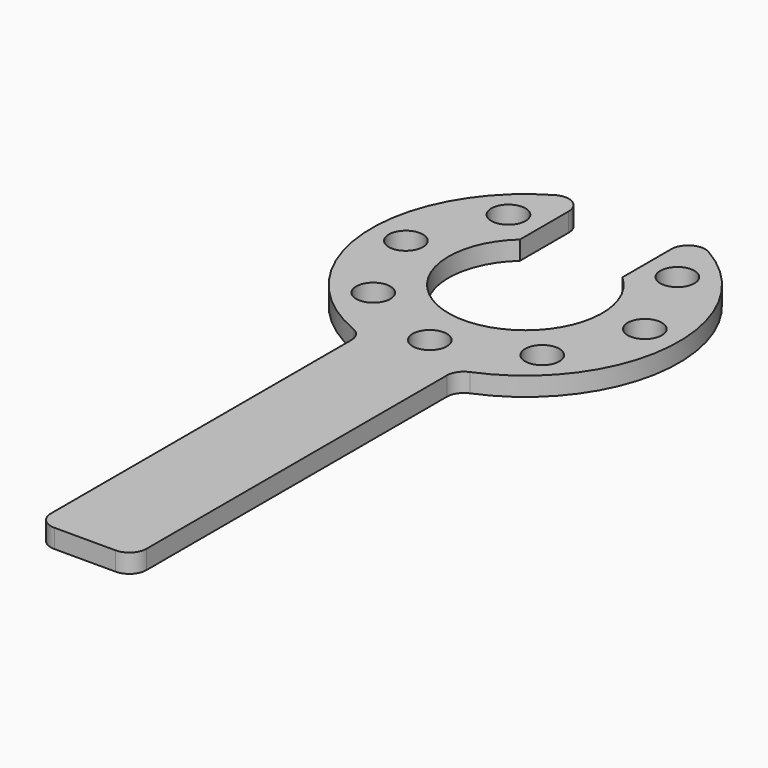
from build123d import *

# Parameters (mm, degrees)
F0_R     = 6.35
F1_DEPTH = 6.985


with BuildPart() as f1:
    # F0 (on Top) → F1 (new body)
    with BuildSketch(Plane.XY):
        with BuildLine():
            ThreePointArc((-19.05, 43.994091), (-22.225, 49.493352), (-28.575, 49.493352))
            ThreePointArc((-28.575, 49.493352), (-57.022152, -3.820554), (-21.717, -52.862978))
            ThreePointArc((-21.717, -52.862978), (-18.855294, -55.201112), (-17.78, -58.736642))
            Line((-17.78, -58.736642), (-17.78, -198.436642))
            ThreePointArc((-17.78, -198.436642), (-15.920128, -202.92677), (-11.43, -204.786642))
            Line((-11.43, -204.786642), (11.43, -204.786642))
            ThreePointArc((11.43, -204.786642), (15.920128, -202.92677), (17.78, -198.436642))
            Line((17.78, -198.436642), (17.78, -58.736642))
            ThreePointArc((17.78, -58.736642), (18.855294, -55.201112), (21.717, -52.862978))
            ThreePointArc((21.717, -52.862978), (57.022152, -3.820554), (28.575, 49.493352))
            ThreePointArc((28.575, 49.493352), (22.225, 49.493352), (19.05, 43.994091))
            Line((19.05, 43.994091), (19.05, 21.298547))
            ThreePointArc((19.05, 21.298547), (0, -28.575), (-19.05, 21.298547))
            Line((-19.05, 21.298547), (-19.05, 43.994091))
        make_face()
        with Locations((-31.430896, -31.430896)):
            Circle(F0_R, mode=Mode.SUBTRACT)
        with Locations((0, -44.45)):
            Circle(F0_R, mode=Mode.SUBTRACT)
        with Locations((-44.45, 0)):
            Circle(F0_R, mode=Mode.SUBTRACT)
        with Locations((-31.430896, 31.430896)):
            Circle(F0_R, mode=Mode.SUBTRACT)
        with Locations((31.430896, -31.430896)):
            Circle(F0_R, mode=Mode.SUBTRACT)
        with Locations((44.45, 0)):
            Circle(F0_R, mode=Mode.SUBTRACT)
        with Locations((31.430896, 31.430896)):
            Circle(F0_R, mode=Mode.SUBTRACT)
    extrude(amount=F1_DEPTH)


solid = f1.part
